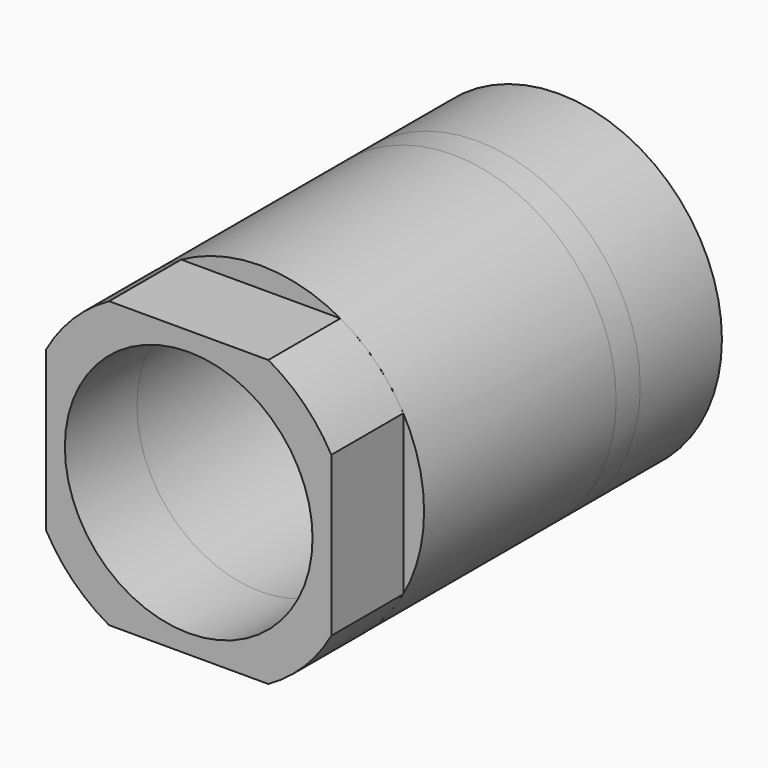
from build123d import *

# Parameters (mm, degrees)
F0_R      = 17.272
F1_DEPTH  = 10.795
F2_R      = 15.113
F3_DEPTH  = 10.795
F4_R      = 17.272
F5_DEPTH  = 3.175
F6_R      = 16.129
F7_DEPTH  = 3.175
F8_R      = 17.272
F9_DEPTH  = 25.4
F10_R     = 13.096875
F11_DEPTH = 25.4
F12_R     = 13.096875
F13_DEPTH = 9.525


with BuildPart() as f1:
    # F0 (on Front) → F1 (new body)
    with BuildSketch(Plane.XZ):
        Circle(F0_R)
    extrude(amount=F1_DEPTH)

    # F2 (on face) → F3 (cut, through all)
    with BuildSketch(Plane(origin=(0, 0, 0), x_dir=(-1, 0, 0), z_dir=(0, 1, 0))):
        Circle(F2_R)
    extrude(amount=-F3_DEPTH, mode=Mode.SUBTRACT)


with BuildPart() as f5:
    # F4 (on face) → F5 (new body)
    with BuildSketch(Plane.XZ.offset(10.795)):
        Circle(F4_R)
    extrude(amount=F5_DEPTH)

    # F6 (on face) → F7 (cut, through all)
    with BuildSketch(Plane.XZ.offset(13.97)):
        Circle(F6_R)
    extrude(amount=-F7_DEPTH, mode=Mode.SUBTRACT)


with BuildPart() as f9:
    # F8 (on face) → F9 (new body)
    with BuildSketch(Plane.XZ.offset(13.97)):
        Circle(F8_R)
    extrude(amount=F9_DEPTH)

    # F10 (on face) → F11 (cut, through all)
    with BuildSketch(Plane.XZ.offset(39.37)):
        Circle(F10_R)
    extrude(amount=-F11_DEPTH, mode=Mode.SUBTRACT)


with BuildPart() as f13:
    # F12 (on face) → F13 (new body)
    with BuildSketch(Plane.XZ.offset(39.37)):
        with BuildLine():
            Line((15.08125, -8.4189003105), (15.08125, 8.4189003105))
            ThreePointArc((15.08125, 8.4189003105), (12.2131483247, 12.2131483247), (8.4189003105, 15.08125))
            Line((8.4189003105, 15.08125), (-8.4189003105, 15.08125))
            ThreePointArc((-8.4189003105, 15.08125), (-12.2131483247, 12.2131483247), (-15.08125, 8.4189003105))
            Line((-15.08125, 8.4189003105), (-15.08125, -8.4189003105))
            ThreePointArc((-15.08125, -8.4189003105), (-12.2131483247, -12.2131483247), (-8.4189003105, -15.08125))
            Line((-8.4189003105, -15.08125), (8.4189003105, -15.08125))
            ThreePointArc((8.4189003105, -15.08125), (12.2131483247, -12.2131483247), (15.08125, -8.4189003105))
        make_face()
        Circle(F12_R, mode=Mode.SUBTRACT)
    extrude(amount=F13_DEPTH)


solid = Compound([f1.part, f5.part, f9.part, f13.part])
